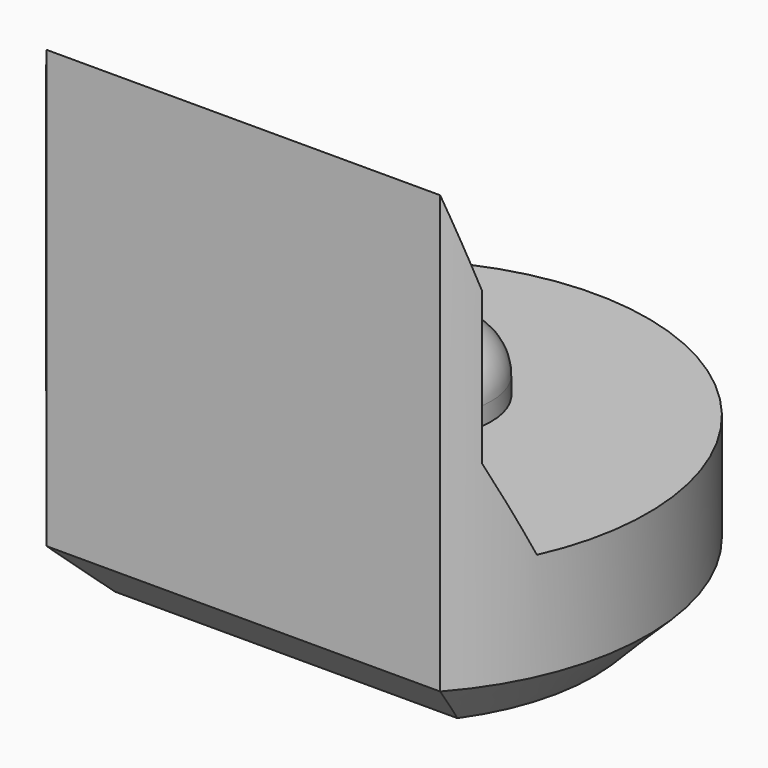
from build123d import *

# Parameters (mm, degrees)
PAD003_DEPTH         = 5.5
POCKET004_DEPTH      = 2.951
POCKET004_DEPTH_BACK = 2.951
SKETCH013_R          = 0.8
PAD006_DEPTH         = 0.7
FILLET_R             = 0.5
CHAMFER004_SIZE      = 0.6


with BuildPart() as part:
    # Sketch004 → Pad003 (new body)
    with BuildSketch(Plane.XY):
        with BuildLine():
            ThreePointArc((2.2, -1.9653244007), (0, 2.95), (-2.2, -1.9653244007))
            Line((-2.2, -1.9653244007), (2.2, -1.9653244007))
        make_face()
    extrude(amount=PAD003_DEPTH)

    # Sketch014 → Pocket004 (cut, two sides)
    with BuildSketch(Plane.YZ) as pocket004_sk:
        Polygon((-1.97, 5.5), (-1.67, 4.5), (-1.67, 2.8), (-1.22, 1.8), (4, 1.8), (4, 5.5), align=None)
    extrude(amount=-POCKET004_DEPTH, mode=Mode.SUBTRACT)
    extrude(pocket004_sk.sketch, amount=POCKET004_DEPTH_BACK, mode=Mode.SUBTRACT)

    # Sketch013 (on Face7 of Pocket004) → Pad006 (join)
    with BuildSketch(Plane.XY.offset(1.8)):
        with Locations((0, 0.5)):
            Circle(SKETCH013_R)
    extrude(amount=PAD006_DEPTH)

    # Fillet
    fillet_edges = [part.edges().sort_by_distance(p)[0] for p in [
        (-0.8, 0.5, 2.5),
    ]]
    fillet(fillet_edges, radius=FILLET_R)

    # Chamfer004
    chamfer004_edges = [part.edges().sort_by_distance(p)[0] for p in [
        (0, 2.95, 0),
        (0, -1.965324, 0),
    ]]
    chamfer(chamfer004_edges, length=CHAMFER004_SIZE)


with BuildPart() as part_1:
    # Body026 placement: moved
    add(part.part.moved(Location((0, 42, 0))))


solid = part_1.part
